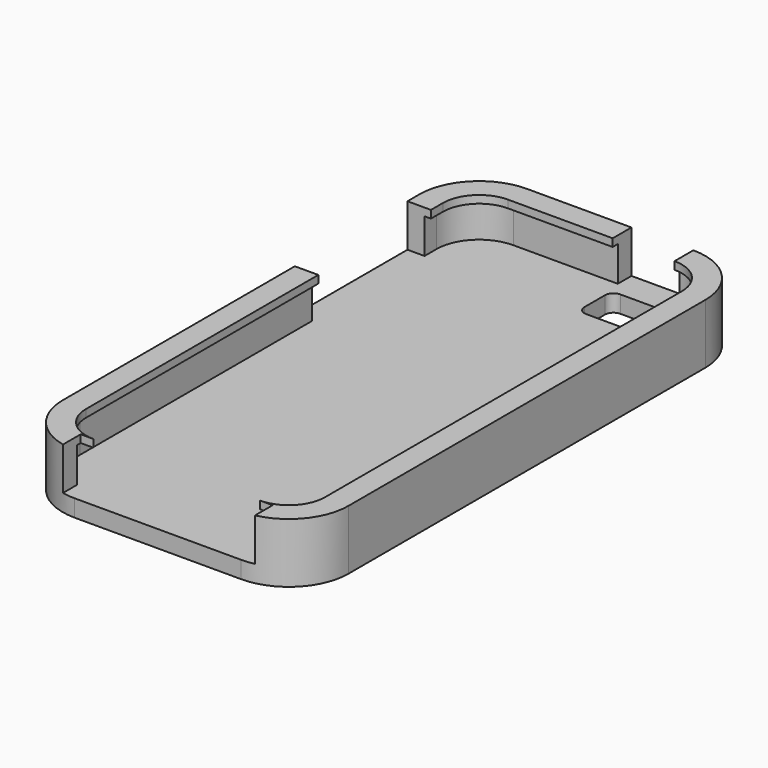
from build123d import *

# Parameters (mm, degrees)
F1_DEPTH = 4
F2_DEPTH = 10
F3_DEPTH = 8.2
F4_W     = 5.5
F4_H     = 33
F4_W_2   = 14.5
F4_H_2   = 5.5
F5_DEPTH = 10


with BuildPart() as f1:
    # F0 (on Top) → F1 (new body)
    with BuildSketch(Plane.XY):
        with BuildLine():
            ThreePointArc((49, -4), (58.8994949366, 0.1005050634), (63, 10))
            Line((63, 10), (63, 114.5))
            ThreePointArc((63, 114.5), (58.8994949366, 124.3994949366), (49, 128.5))
            Line((49, 128.5), (10, 128.5))
            ThreePointArc((10, 128.5), (0.1005050634, 124.3994949366), (-4, 114.5))
            Line((-4, 114.5), (-4, 10))
            ThreePointArc((-4, 10), (0.1005050634, 0.1005050634), (10, -4))
            Line((10, -4), (49, -4))
        make_face()
        with BuildLine():
            Line((49, 0), (10, 0))
            ThreePointArc((10, 0), (2.9289321881, 2.9289321881), (0, 10))
            Line((0, 10), (0, 114.5))
            ThreePointArc((0, 114.5), (2.9289321881, 121.5710678119), (10, 124.5))
            Line((10, 124.5), (49, 124.5))
            ThreePointArc((49, 124.5), (56.0710678119, 121.5710678119), (59, 114.5))
            Line((59, 114.5), (59, 10))
            ThreePointArc((59, 10), (56.0710678119, 2.9289321881), (49, 0))
        make_face(mode=Mode.SUBTRACT)
        with BuildLine():
            ThreePointArc((0, 10), (2.9289321881, 2.9289321881), (10, 0))
            Line((10, 0), (49, 0))
            ThreePointArc((49, 0), (56.0710678119, 2.9289321881), (59, 10))
            Line((59, 10), (59, 114.5))
            ThreePointArc((59, 114.5), (56.0710678119, 121.5710678119), (49, 124.5))
            Line((49, 124.5), (10, 124.5))
            ThreePointArc((10, 124.5), (2.9289321881, 121.5710678119), (0, 114.5))
            Line((0, 114.5), (0, 10))
        make_face()
        with BuildLine():
            ThreePointArc((57.5, 10), (55.0104076401, 3.9895923599), (49, 1.5))
            Line((49, 1.5), (10, 1.5))
            ThreePointArc((10, 1.5), (3.9895923599, 3.9895923599), (1.5, 10))
            Line((1.5, 10), (1.5, 114.5))
            ThreePointArc((1.5, 114.5), (3.9895923599, 120.5104076401), (10, 123))
            Line((10, 123), (49, 123))
            ThreePointArc((49, 123), (55.0104076401, 120.5104076401), (57.5, 114.5))
            Line((57.5, 114.5), (57.5, 10))
        make_face(mode=Mode.SUBTRACT)
        with BuildLine():
            Line((10, 1.5), (49, 1.5))
            ThreePointArc((49, 1.5), (55.0104076401, 3.9895923599), (57.5, 10))
            Line((57.5, 10), (57.5, 114.5))
            ThreePointArc((57.5, 114.5), (55.0104076401, 120.5104076401), (49, 123))
            Line((49, 123), (10, 123))
            ThreePointArc((10, 123), (3.9895923599, 120.5104076401), (1.5, 114.5))
            Line((1.5, 114.5), (1.5, 10))
            ThreePointArc((1.5, 10), (3.9895923599, 3.9895923599), (10, 1.5))
        make_face()
        with BuildLine():
            Line((37.5, 121.5), (51.5, 121.5))
            ThreePointArc((51.5, 121.5), (52.9142135624, 120.9142135624), (53.5, 119.5))
            Line((53.5, 119.5), (53.5, 113.5))
            ThreePointArc((53.5, 113.5), (52.9142135624, 112.0857864376), (51.5, 111.5))
            Line((51.5, 111.5), (37.5, 111.5))
            ThreePointArc((37.5, 111.5), (36.0857864376, 112.0857864376), (35.5, 113.5))
            Line((35.5, 113.5), (35.5, 119.5))
            ThreePointArc((35.5, 119.5), (36.0857864376, 120.9142135624), (37.5, 121.5))
        make_face(mode=Mode.SUBTRACT)
    extrude(amount=-F1_DEPTH)

    # F0 (on Top) → F2 (join)
    with BuildSketch(Plane.XY):
        with BuildLine():
            ThreePointArc((49, -4), (58.8994949366, 0.1005050634), (63, 10))
            Line((63, 10), (63, 114.5))
            ThreePointArc((63, 114.5), (58.8994949366, 124.3994949366), (49, 128.5))
            Line((49, 128.5), (10, 128.5))
            ThreePointArc((10, 128.5), (0.1005050634, 124.3994949366), (-4, 114.5))
            Line((-4, 114.5), (-4, 10))
            ThreePointArc((-4, 10), (0.1005050634, 0.1005050634), (10, -4))
            Line((10, -4), (49, -4))
        make_face()
        with BuildLine():
            Line((49, 0), (10, 0))
            ThreePointArc((10, 0), (2.9289321881, 2.9289321881), (0, 10))
            Line((0, 10), (0, 114.5))
            ThreePointArc((0, 114.5), (2.9289321881, 121.5710678119), (10, 124.5))
            Line((10, 124.5), (49, 124.5))
            ThreePointArc((49, 124.5), (56.0710678119, 121.5710678119), (59, 114.5))
            Line((59, 114.5), (59, 10))
            ThreePointArc((59, 10), (56.0710678119, 2.9289321881), (49, 0))
        make_face(mode=Mode.SUBTRACT)
        with BuildLine():
            ThreePointArc((0, 10), (2.9289321881, 2.9289321881), (10, 0))
            Line((10, 0), (49, 0))
            ThreePointArc((49, 0), (56.0710678119, 2.9289321881), (59, 10))
            Line((59, 10), (59, 114.5))
            ThreePointArc((59, 114.5), (56.0710678119, 121.5710678119), (49, 124.5))
            Line((49, 124.5), (10, 124.5))
            ThreePointArc((10, 124.5), (2.9289321881, 121.5710678119), (0, 114.5))
            Line((0, 114.5), (0, 10))
        make_face()
        with BuildLine():
            ThreePointArc((57.5, 10), (55.0104076401, 3.9895923599), (49, 1.5))
            Line((49, 1.5), (10, 1.5))
            ThreePointArc((10, 1.5), (3.9895923599, 3.9895923599), (1.5, 10))
            Line((1.5, 10), (1.5, 114.5))
            ThreePointArc((1.5, 114.5), (3.9895923599, 120.5104076401), (10, 123))
            Line((10, 123), (49, 123))
            ThreePointArc((49, 123), (55.0104076401, 120.5104076401), (57.5, 114.5))
            Line((57.5, 114.5), (57.5, 10))
        make_face(mode=Mode.SUBTRACT)
    extrude(amount=F2_DEPTH)

    # F0 (on Top) → F3 (cut)
    with BuildSketch(Plane.XY):
        with BuildLine():
            ThreePointArc((0, 10), (2.9289321881, 2.9289321881), (10, 0))
            Line((10, 0), (49, 0))
            ThreePointArc((49, 0), (56.0710678119, 2.9289321881), (59, 10))
            Line((59, 10), (59, 114.5))
            ThreePointArc((59, 114.5), (56.0710678119, 121.5710678119), (49, 124.5))
            Line((49, 124.5), (10, 124.5))
            ThreePointArc((10, 124.5), (2.9289321881, 121.5710678119), (0, 114.5))
            Line((0, 114.5), (0, 10))
        make_face()
        with BuildLine():
            ThreePointArc((57.5, 10), (55.0104076401, 3.9895923599), (49, 1.5))
            Line((49, 1.5), (10, 1.5))
            ThreePointArc((10, 1.5), (3.9895923599, 3.9895923599), (1.5, 10))
            Line((1.5, 10), (1.5, 114.5))
            ThreePointArc((1.5, 114.5), (3.9895923599, 120.5104076401), (10, 123))
            Line((10, 123), (49, 123))
            ThreePointArc((49, 123), (55.0104076401, 120.5104076401), (57.5, 114.5))
            Line((57.5, 114.5), (57.5, 10))
        make_face(mode=Mode.SUBTRACT)
    extrude(amount=F3_DEPTH, mode=Mode.SUBTRACT)

    # F4 (on face) → F5 (cut)
    with BuildSketch(Plane.XY.offset(10)):
        with Locations((-1.25, 94.5)):
            Rectangle(F4_W, F4_H)
        with Locations((41.75, 125.75)):
            Rectangle(F4_W_2, F4_H_2)
        with BuildLine():
            Line((7, 1.5), (7, -3.6747943312))
            ThreePointArc((7, -3.6747943312), (8.4912125127, -3.9184611333), (10, -4))
            Line((10, -4), (49, -4))
            ThreePointArc((49, -4), (50.5087874873, -3.9184611333), (52, -3.6747943312))
            Line((52, -3.6747943312), (52, 1.5))
            Line((52, 1.5), (49, 1.5))
            Line((49, 1.5), (10, 1.5))
            Line((10, 1.5), (7, 1.5))
        make_face()
    extrude(amount=-F5_DEPTH, mode=Mode.SUBTRACT)


solid = f1.part
